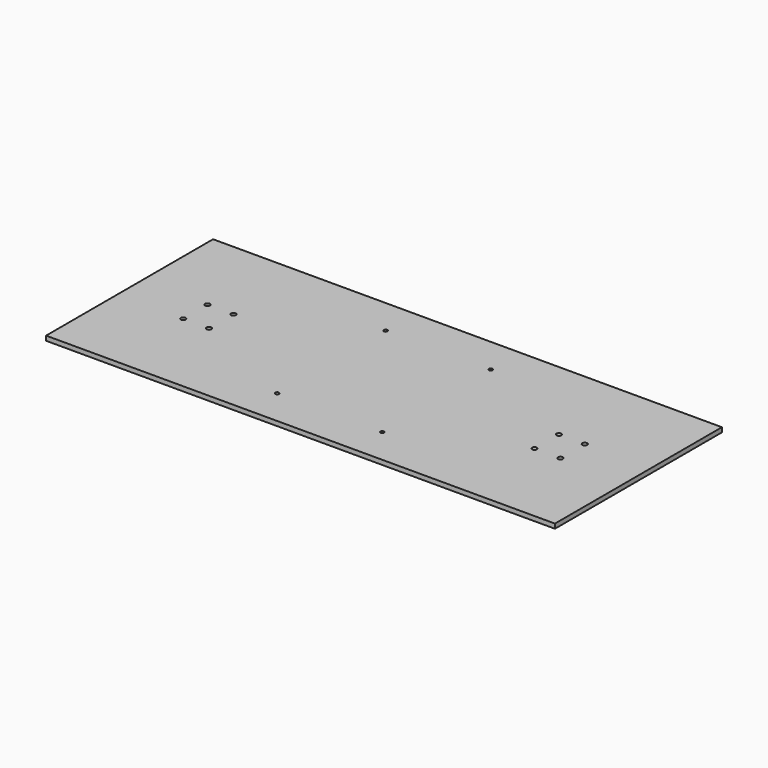
from build123d import *

# Parameters (mm, degrees)
F0_W     = 1670
F0_H     = 685
F0_R     = 6
F0_R_2   = 8
F1_DEPTH = 15


with BuildPart() as f1:
    # F0 (on Top) → F1 (new body)
    with BuildSketch(Plane.XY):
        Rectangle(F0_W, F0_H)
        with Locations((-172.5, -222.5)):
            Circle(F0_R, mode=Mode.SUBTRACT)
        with Locations((-619, -50)):
            Circle(F0_R_2, mode=Mode.SUBTRACT)
        with Locations((-534, -50)):
            Circle(F0_R_2, mode=Mode.SUBTRACT)
        with Locations((172.5, -222.5)):
            Circle(F0_R, mode=Mode.SUBTRACT)
        with Locations((534, -50)):
            Circle(F0_R_2, mode=Mode.SUBTRACT)
        with Locations((619, -50)):
            Circle(F0_R_2, mode=Mode.SUBTRACT)
        with Locations((-619, 50)):
            Circle(F0_R_2, mode=Mode.SUBTRACT)
        with Locations((-534, 50)):
            Circle(F0_R_2, mode=Mode.SUBTRACT)
        with Locations((-172.5, 222.5)):
            Circle(F0_R, mode=Mode.SUBTRACT)
        with Locations((534, 50)):
            Circle(F0_R_2, mode=Mode.SUBTRACT)
        with Locations((619, 50)):
            Circle(F0_R_2, mode=Mode.SUBTRACT)
        with Locations((172.5, 222.5)):
            Circle(F0_R, mode=Mode.SUBTRACT)
    extrude(amount=F1_DEPTH)


solid = f1.part
